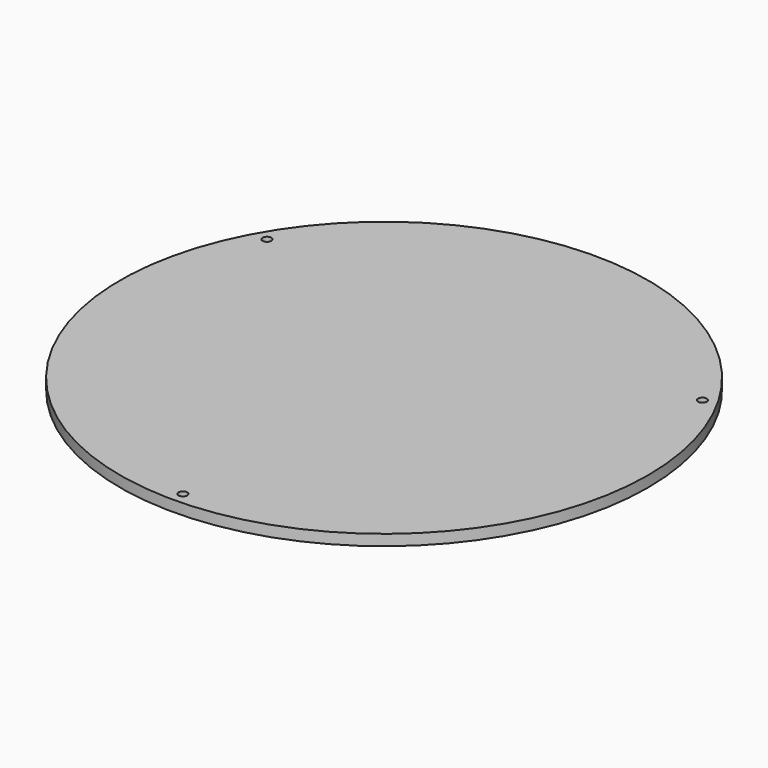
from build123d import *

# Parameters (mm, degrees)
F0_R     = 48.5
F0_R_2   = 0.8
F1_DEPTH = 2


with BuildPart() as f1:
    # F0 (on Top) → F1 (new body)
    with BuildSketch(Plane.XY):
        Circle(F0_R)
        with Locations((0, -46.2)):
            Circle(F0_R_2, mode=Mode.SUBTRACT)
        with Locations((-40.010374, 23.1)):
            Circle(F0_R_2, mode=Mode.SUBTRACT)
        with Locations((40.010374, 23.1)):
            Circle(F0_R_2, mode=Mode.SUBTRACT)
    extrude(amount=F1_DEPTH)


solid = f1.part
